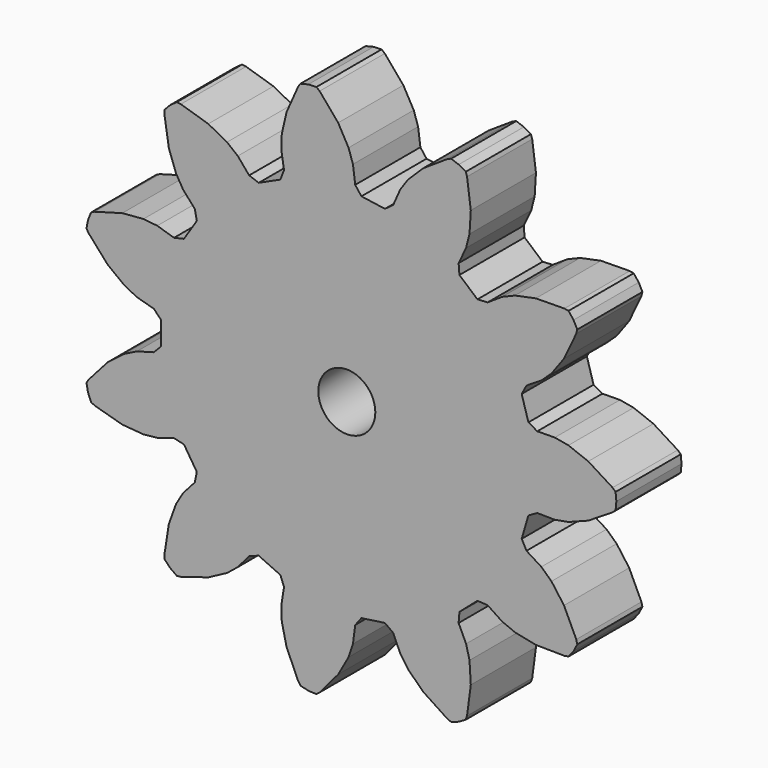
from build123d import *

# Parameters (mm, degrees)
F1_DEPTH = 5
F2_R     = 1.75
F3_DEPTH = 25


with BuildPart() as f1:
    # F0 (on Front) → F1 (new body)
    with BuildSketch(Plane.XZ):
        Polygon((-15.759088, 5.238458), (-15.984615, 5.125695), (-16.169742, 4.663269), (-16.264009, 4.174165), (-16.135249, 3.957374), (-14.96593, 2.641114), (-13.930142, 1.847068), (-13.170214, 1.467105), (-12.134025, 1.176704), (-11.697261, 0.730628), (-11.697261, -0.730628), (-12.134025, -1.176704), (-13.170214, -1.467105), (-13.930142, -1.847068), (-14.96593, -2.641114), (-16.135249, -3.957374), (-16.264009, -4.174165), (-16.169742, -4.663269), (-15.984615, -5.125695), (-15.759088, -5.238458), (-14.063771, -5.713585), (-12.763117, -5.821589), (-11.918401, -5.730387), (-10.889701, -5.414481), (-10.281105, -5.553612), (-9.49109, -6.782899), (-9.617352, -7.394294), (-10.332048, -8.198801), (-10.765916, -8.929295), (-11.207983, -10.157278), (-11.480053, -11.896767), (-11.471167, -12.148757), (-11.127434, -12.509253), (-10.721689, -12.798183), (-10.471, -12.771117), (-8.787936, -12.254261), (-7.635364, -11.641933), (-6.974052, -11.108521), (-6.279446, -10.286607), (-5.692242, -10.074619), (-4.363037, -10.681647), (-4.13871, -11.264248), (-4.305001, -12.327436), (-4.275059, -13.176533), (-3.983052, -14.448578), (-3.271493, -16.059021), (-3.127781, -16.266204), (-2.643716, -16.383637), (-2.146174, -16.407338), (-1.949914, -16.249036), (-0.813464, -14.904296), (-0.174908, -13.766046), (0.093039, -12.959779), (0.233018, -11.892808), (0.612396, -11.397006), (2.058779, -11.189048), (2.562472, -11.557883), (2.997382, -12.542197), (3.481627, -13.240315), (4.414999, -14.152556), (5.884272, -15.12265), (6.117181, -15.219247), (6.587892, -15.056333), (7.019264, -14.80728), (7.098784, -14.568001), (7.327805, -12.822322), (7.249608, -11.519536), (7.039119, -10.696398), (6.580029, -9.723126), (6.631132, -9.100924), (7.735475, -8.144005), (8.358617, -8.181972), (9.256646, -8.774899), (10.041451, -9.100391), (11.319848, -9.363198), (13.080351, -9.384944), (13.328511, -9.340286), (13.63642, -8.948748), (13.864665, -8.506014), (13.802197, -8.261728), (13.051077, -6.669352), (12.280954, -5.615655), (11.658857, -5.036986), (10.746456, -4.466421), (10.453058, -3.915363), (10.864742, -2.513298), (11.409488, -2.208342), (12.48552, -2.221633), (13.321713, -2.071157), (14.539253, -1.60109), (16.032039, -0.667584), (16.216661, -0.495851), (16.264009, 0), (16.216661, 0.495851), (16.032039, 0.667584), (14.539253, 1.60109), (13.321713, 2.071157), (12.48552, 2.221633), (11.409488, 2.208342), (10.864742, 2.513298), (10.453058, 3.915363), (10.746456, 4.466421), (11.658857, 5.036986), (12.280954, 5.615655), (13.051077, 6.669352), (13.802197, 8.261728), (13.864665, 8.506014), (13.63642, 8.948748), (13.328511, 9.340286), (13.080351, 9.384944), (11.319848, 9.363198), (10.041451, 9.100391), (9.256646, 8.774899), (8.358617, 8.181972), (7.735475, 8.144005), (6.631132, 9.100924), (6.580029, 9.723126), (7.039119, 10.696398), (7.249608, 11.519536), (7.327805, 12.822322), (7.098784, 14.568001), (7.019264, 14.80728), (6.587892, 15.056333), (6.117181, 15.219247), (5.884272, 15.12265), (4.414999, 14.152556), (3.481627, 13.240315), (2.997382, 12.542197), (2.562472, 11.557883), (2.058779, 11.189048), (0.612396, 11.397006), (0.233018, 11.892808), (0.093039, 12.959779), (-0.174908, 13.766046), (-0.813464, 14.904296), (-1.949914, 16.249036), (-2.146174, 16.407338), (-2.643716, 16.383637), (-3.127781, 16.266204), (-3.271493, 16.059021), (-3.983052, 14.448578), (-4.275059, 13.176533), (-4.305001, 12.327436), (-4.13871, 11.264248), (-4.363037, 10.681647), (-5.692242, 10.074619), (-6.279446, 10.286607), (-6.974052, 11.108521), (-7.635364, 11.641933), (-8.787936, 12.254261), (-10.471, 12.771117), (-10.721689, 12.798183), (-11.127434, 12.509253), (-11.471167, 12.148757), (-11.480053, 11.896767), (-11.207983, 10.157278), (-10.765916, 8.929295), (-10.332048, 8.198801), (-9.617352, 7.394294), (-9.49109, 6.782899), (-10.281105, 5.553612), (-10.889701, 5.414481), (-11.918401, 5.730387), (-12.763117, 5.821589), (-14.063771, 5.713585), align=None)
        Polygon((-1.27575, 1.161973), (-1.01258, 1.341924), (-0.717747, 1.463227), (-0.404136, 1.520579), (-0.085455, 1.511475), (0.22437, 1.436313), (0.511798, 1.298376), (0.764266, 1.103694), (0.97074, 0.860776), (1.122196, 0.580237), (1.212016, 0.27434), (1.236273, -0.043548), (1.193908, -0.359532), (1.086771, -0.659803), (0.919546, -0.931238), (0.699541, -1.161973), (0.436371, -1.341924), (0.141537, -1.463227), (-0.172073, -1.520579), (-0.490755, -1.511475), (-0.80058, -1.436313), (-1.088008, -1.298376), (-1.340475, -1.103694), (-1.546949, -0.860776), (-1.698406, -0.580237), (-1.788226, -0.27434), (-1.812483, 0.043548), (-1.770117, 0.359532), (-1.662981, 0.659803), (-1.495756, 0.931238), align=None, mode=Mode.SUBTRACT)
    extrude(amount=F1_DEPTH)

    # F2 (on face) → F3 (cut)
    with BuildSketch(Plane.XZ.offset(5)):
        with Locations((-0.282437, 0)):
            Circle(F2_R)
    extrude(amount=-F3_DEPTH, mode=Mode.SUBTRACT)


solid = f1.part
